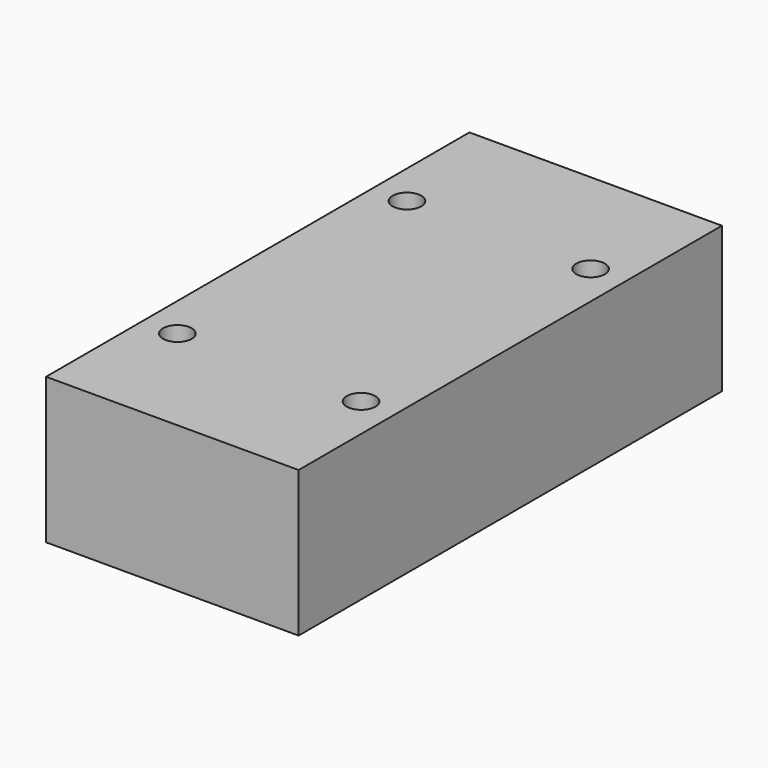
from build123d import *

# Parameters (mm, degrees)
F0_W     = 44
F0_H     = 25.4
F1_DEPTH = 92.2
F2_R     = 2.5
F3_DEPTH = 6


with BuildPart() as f1:
    # F0 (on Front) → F1 (new body)
    with BuildSketch(Plane.XZ):
        Rectangle(F0_W, F0_H)
    extrude(amount=-F1_DEPTH)

    # F2 (on face) → F3 (cut)
    with BuildSketch(Plane.XY.offset(12.7)):
        with Locations((-16, 71.1)):
            Circle(F2_R)
        with Locations((-16, 21.1)):
            Circle(F2_R)
        with Locations((16, 21.1)):
            Circle(F2_R)
        with Locations((16, 71.1)):
            Circle(F2_R)
    extrude(amount=-F3_DEPTH, mode=Mode.SUBTRACT)


solid = f1.part
